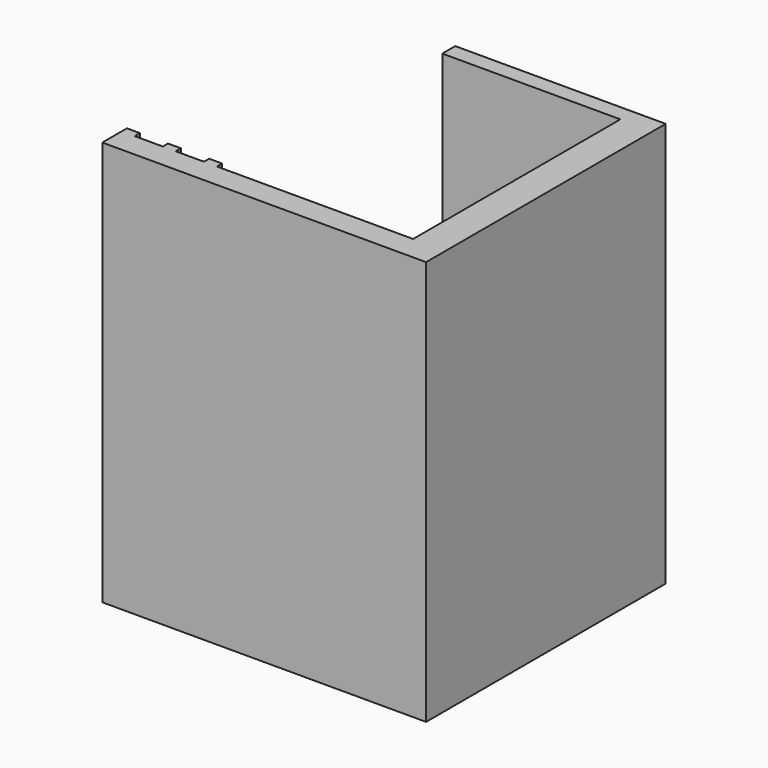
from build123d import *

# Parameters (mm, degrees)
F1_DEPTH = 25
F2_R     = 1.25
F3_DEPTH = 2.5


with BuildPart() as f1:
    # F0 (on Top) → F1 (new body)
    with BuildSketch(Plane.XY):
        Polygon((36.160089, 6.582525), (23.160089, 6.582525), (23.160089, 5.582525), (28.360089, 5.582525), (30.160089, 5.582525), (34.160089, 5.582525), (34.160089, -10.417475), (22.040089, -10.417475), (22.040089, -10.017475), (21.240089, -10.017475), (21.240089, -10.417475), (19.500089, -10.417475), (19.500089, -10.017475), (18.700089, -10.017475), (18.700089, -10.417475), (16.960089, -10.417475), (16.960089, -10.017475), (16.160089, -10.017475), (16.160089, -10.417475), (16.160089, -11.917475), (36.160089, -11.917475), align=None)
    extrude(amount=F1_DEPTH)

    # F2 (on face) → F3 (join)
    with BuildSketch(Plane.XZ.offset(-5.582525)):
        with Locations((29.160089, 12.5)):
            Circle(F2_R)
    extrude(amount=F3_DEPTH)


solid = f1.part
